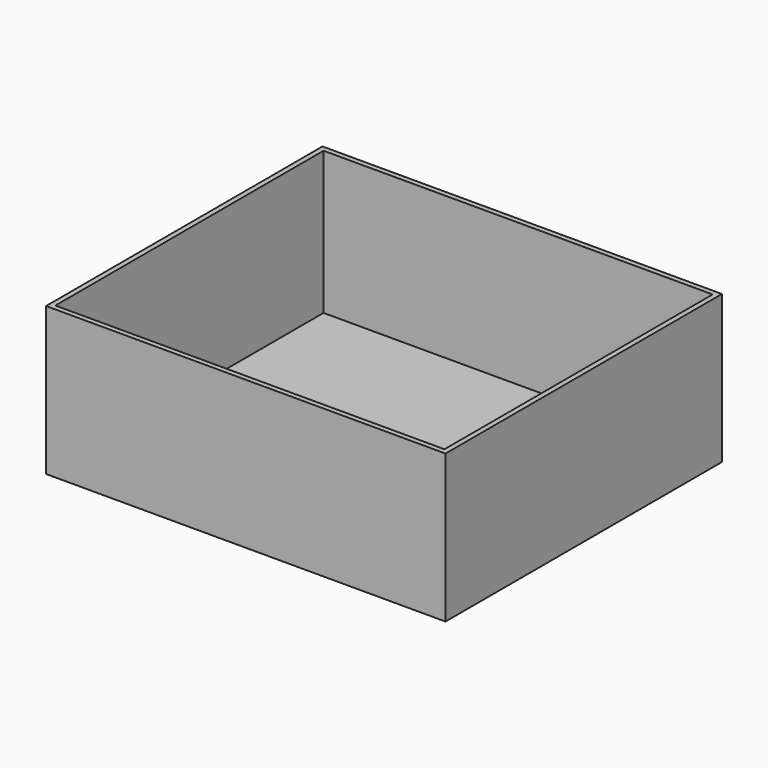
from build123d import *

# Parameters (mm, degrees)
F0_W     = 113.0900681019
F0_H     = 62.9108082503
F1_DEPTH = 71.882
F2_DEPTH = 81
F3_DEPTH = 105
F4_T     = -2.5


with BuildPart() as f1:
    # F0 (on Top) → F1 (new body)
    with BuildSketch(Plane.XY):
        with Locations((15.5839696527, -1.4044689015)):
            Rectangle(F0_W, F0_H)
    extrude(amount=F1_DEPTH)

    # F2 (add): a face of the model
    f2_faces = [f1.faces().sort_by_distance(p)[0] for p in [
        (72.1290037036, -1.4044689015, 35.941),
    ]]
    extrude(f2_faces, amount=F2_DEPTH)

    # F3 (add): a face of the model
    f3_faces = [f1.faces().sort_by_distance(p)[0] for p in [
        (56.0839696527, 30.0509352237, 35.941),
    ]]
    extrude(f3_faces, amount=F3_DEPTH)

    # F4
    f4_openings = [f1.faces().sort_by_distance(p)[0] for p in [
        (56.08397, 51.095531, 71.882),
    ]]
    offset(amount=F4_T, openings=f4_openings)


solid = f1.part
